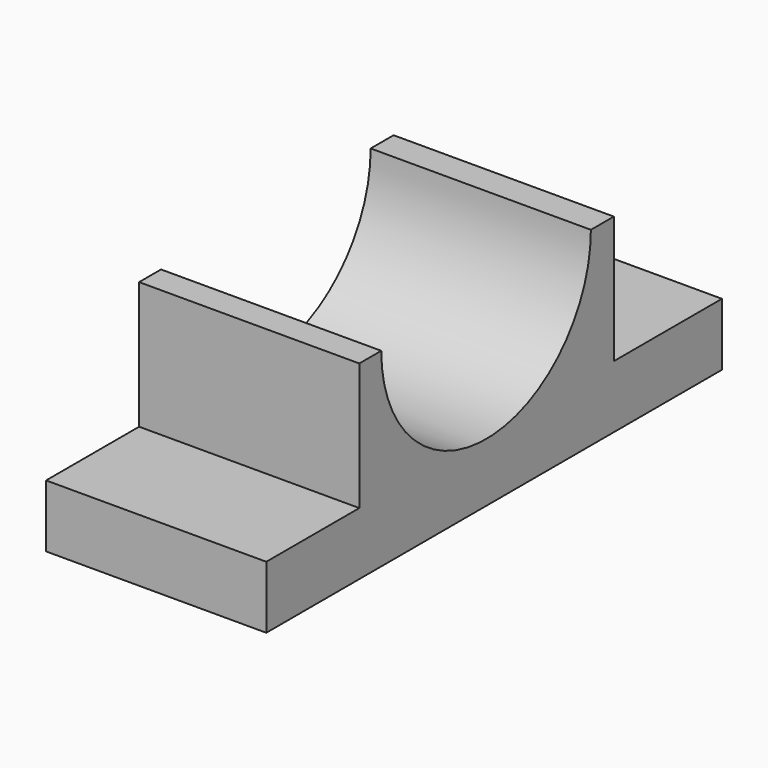
from build123d import *

# Parameters (mm, degrees)
F1_DEPTH = 147.32


with BuildPart() as f1:
    # F0 (on Right) → F1 (new body)
    with BuildSketch(Plane.YZ):
        with BuildLine():
            Line((-94.374272, 63.5), (-112.718299, 63.5))
            Line((-112.718299, 63.5), (-112.718299, -21.665078))
            Line((-112.718299, -21.665078), (-190.5, -21.665078))
            Line((-190.5, -21.665078), (-190.5, -63.5))
            Line((-190.5, -63.5), (190.5, -63.5))
            Line((190.5, -63.5), (190.5, -21.665078))
            Line((190.5, -21.665078), (100.091286, -21.665078))
            Line((100.091286, -21.665078), (100.091286, 63.5))
            Line((100.091286, 63.5), (80.922413, 63.5))
            ThreePointArc((80.922413, 63.5), (-6.72593, -24.148342), (-94.374272, 63.5))
        make_face()
    extrude(amount=F1_DEPTH)


solid = f1.part
